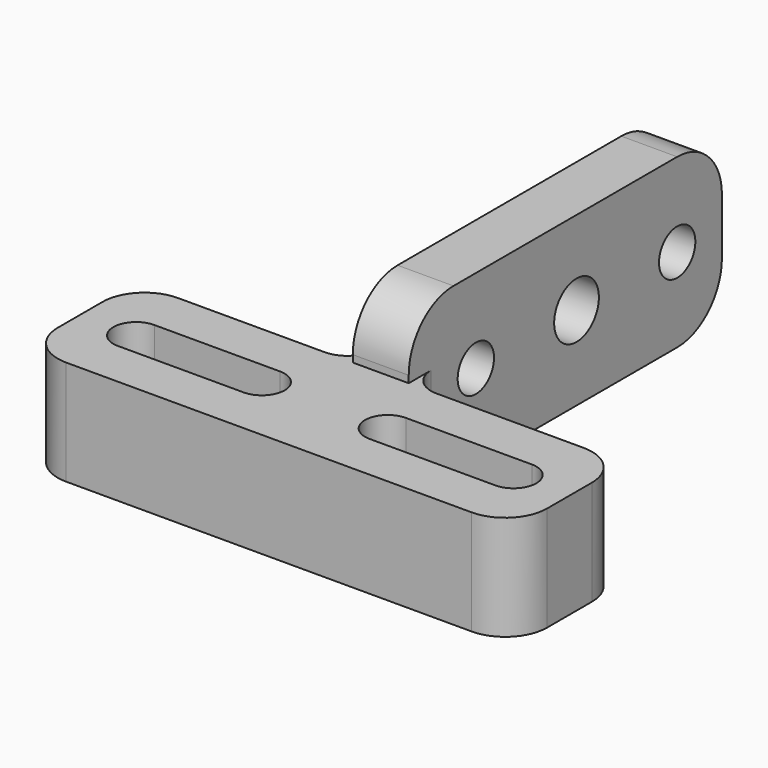
from build123d import *

# Parameters (mm, degrees)
SKETCH_W          = 35
SKETCH_H          = 10
PAD_DEPTH         = 7.5
FILLET_R          = 3
SKETCH002_W       = 4
SKETCH002_H       = 28
PAD001_DEPTH      = 4.5
PAD001_DEPTH_BACK = 7.5
FILLET001_R       = 2
SKETCH003_R       = 1.625
SKETCH003_R_2     = 2
POCKET_DEPTH      = 19.501
FILLET002_R       = 4


with BuildPart() as part:
    # Sketch → Pad (new body)
    with BuildSketch(Plane.XY):
        Rectangle(SKETCH_W, SKETCH_H)
        with BuildLine():
            ThreePointArc((-13.5, 1.625), (-15.125, 0), (-13.5, -1.625))
            Line((-13.5, -1.625), (-4.5, -1.625))
            ThreePointArc((-4.5, -1.625), (-2.875, 0), (-4.5, 1.625))
            Line((-13.5, 1.625), (-4.5, 1.625))
        make_face(mode=Mode.SUBTRACT)
        with BuildLine():
            ThreePointArc((4.5, 1.625), (2.875, 0), (4.5, -1.625))
            Line((4.5, -1.625), (13.5, -1.625))
            ThreePointArc((13.5, -1.625), (15.125, 0), (13.5, 1.625))
            Line((4.5, 1.625), (13.5, 1.625))
        make_face(mode=Mode.SUBTRACT)
    extrude(amount=PAD_DEPTH)

    # Fillet
    fillet_edges = [part.edges().sort_by_distance(p)[0] for p in [
        (-17.5, 5, 3.75),
        (-17.5, -5, 3.75),
        (17.5, -5, 3.75),
        (17.5, 5, 3.75),
    ]]
    fillet(fillet_edges, radius=FILLET_R)

    # Sketch002 (on Face5 of Fillet) → Pad001 (join, two sides)
    with BuildSketch(Plane.XY.offset(7.5)) as pad001_sk:
        with Locations((0, 19)):
            Rectangle(SKETCH002_W, SKETCH002_H)
    extrude(amount=PAD001_DEPTH)
    extrude(pad001_sk.sketch, amount=-PAD001_DEPTH_BACK)

    # Fillet001
    fillet001_edges = [part.edges().sort_by_distance(p)[0] for p in [
        (2, 5, 3.75),
        (-2, 5, 3.75),
    ]]
    fillet(fillet001_edges, radius=FILLET001_R)

    # Sketch003 (on Face22 of Fillet001) → Pocket (cut, through all)
    with BuildSketch(Plane(origin=(-2, 0, 0), x_dir=(0, -1, 0), z_dir=(-1, 0, 0))):
        with Locations((-29, 6)):
            Circle(SKETCH003_R)
        with Locations((-11, 6)):
            Circle(SKETCH003_R)
        with Locations((-20, 6)):
            Circle(SKETCH003_R_2)
    extrude(amount=-POCKET_DEPTH, mode=Mode.SUBTRACT)

    # Fillet002
    fillet002_edges = [part.edges().sort_by_distance(p)[0] for p in [
        (0, 33, 0),
        (0, 33, 12),
        (0, 5, 12),
    ]]
    fillet(fillet002_edges, radius=FILLET002_R)


solid = part.part
